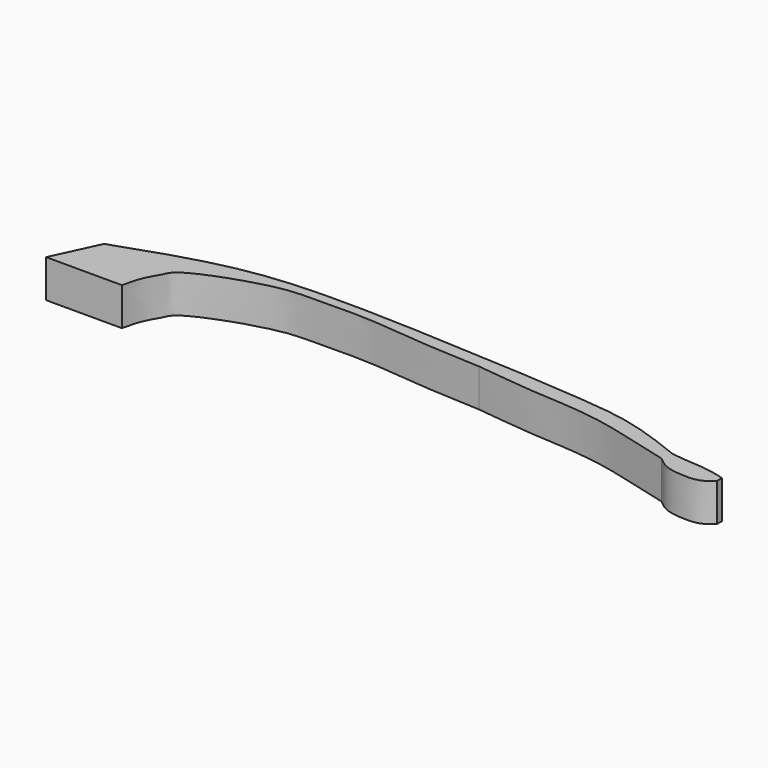
from build123d import *

# Parameters (mm, degrees)
F1_DEPTH = 3
F2_SCALE = 0.5


with BuildPart() as f1:
    # F0 (on Top) → F1 (new body)
    with BuildSketch(Plane.XY):
        with BuildLine():
            Line((-32.1844442415, -3.9725867236), (-33.8759870601, -7.5973188368))
            Line((-33.8759870601, -7.5973188368), (-27.8759870601, -7.5973188368))
            add(Edge.make_bspline(
                [(-27.8759870601, -7.5973188368), (-27.8038254782, -7.2648734857), (-27.6574002143, -6.5875678446), (-27.2646463389, -5.6301421197), (-26.7728286043, -4.9153647957), (-26.4888598722, -3.8042604427), (-20.2029596141, -1.5713832491), (-17.3783914054, -1.6776275889), (-13.2368453772, -1.512953355), (-8.2447998619, -2.1368717955), (-5.1632964799, -2.2422700462), (-3.8248591591, -2.3046508431)],
                knots=[0, 0, 0, 0, 0.070025706, 0.1399754105, 0.2016299051, 0.2693638042, 0.4413283419, 0.5636735559, 0.6999170698, 0.8561107584, 1, 1, 1, 1], degree=3))
            add(Edge.make_bspline(
                [(-3.8248591591, -2.3046508431), (-2.6929860236, -2.3960908905), (0.1123803638, -2.8800737703), (6.3814087228, -2.9618663623), (10.5410790482, -4.3959544034), (12.6622207463, -4.8767356202)],
                knots=[0, 0, 0, 0, 0.2788238534, 0.6341967231, 1, 1, 1, 1], degree=3))
            add(Edge.make_bspline(
                [(12.6622207463, -4.8767356202), (12.9592753428, -5.130307504), (13.5914283791, -5.6699262749), (15.1173411919, -5.8431470928), (16.393816913, -5.7996612326), (16.953556191, -5.3250850395), (17.2204859555, -5.0987680443)],
                knots=[0, 0, 0, 0, 0.2446844048, 0.5207055916, 0.7714329714, 1, 1, 1, 1], degree=3))
            Line((17.2204859555, -5.0987680443), (17.2204859555, -4.5987680443))
            add(Edge.make_bspline(
                [(16.6431851685, -4.4225030579), (16.8356187642, -4.4812580533), (17.0280523598, -4.5400130488), (17.2204859555, -4.5987680443)],
                knots=[0, 0, 0, 0, 0.6036104241, 0.6036104241, 0.6036104241, 0.6036104241], degree=3))
            add(Edge.make_bspline(
                [(12.8155557585, -3.9725867236), (13.1281467473, -4.016861985), (13.8298034299, -4.116244354), (15.4051233406, -4.1685774638), (16.2452872451, -4.3408944788), (16.6431851685, -4.4225030579)],
                knots=[0, 0, 0, 0, 0.2972269238, 0.6671697675, 1, 1, 1, 1], degree=3))
            add(Edge.make_bspline(
                [(-32.1844442415, -3.9725867236), (-30.0131749264, -3.2188659016), (-26.109219992, -1.8531503717), (-19.480316267, -0.5475927067), (-7.4878824368, -1.0214923962), (5.3373274151, -1.7578293397), (8.9419800788, -2.4005956948), (12.8155557585, -3.9725867236)],
                knots=[0, 0, 0, 0, 0.1686160949, 0.339358763, 0.5739344403, 0.8064931955, 1, 1, 1, 1], degree=3))
        make_face()
    extrude(amount=F1_DEPTH)


with BuildPart() as f1_1:
    # F2: moved
    add(f1.part.scale(F2_SCALE))


solid = f1_1.part
